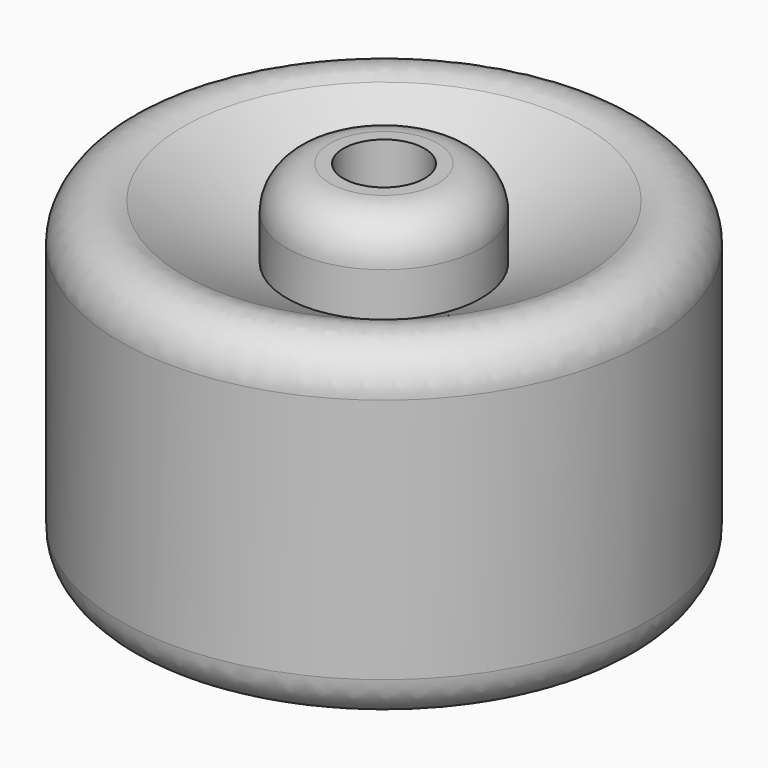
from build123d import *

# Parameters (mm, degrees)
F2_R     = 4.7879
F3_DEPTH = 9.5758
F4_R     = 5.08
F5_R     = 1.5875
F6_DEPTH = 21.6662


with BuildPart() as f1:
    # F0 (on Front) → F1 (revolve)
    with BuildSketch(Plane.XZ):
        Polygon((0, 48.886847), (0, 0), (31.123154, 7.487174), (31.123154, 48.886847), (11.450971, 38.610332), (11.450971, 48.886847), align=None)
    revolve(axis=Axis((0, 0, 24.443423), (0, 0, 1)))

    # F2 (on face) → F3 (cut)
    with BuildSketch(Plane.XY.offset(48.886847)):
        Circle(F2_R)
    extrude(amount=-F3_DEPTH, mode=Mode.SUBTRACT)

    # F4
    f4_edges = [f1.edges().sort_by_distance(p)[0] for p in [
        (-31.123154, 0, 7.487174),
        (-31.123154, 0, 48.886847),
        (31.123154, 0, 28.18701),
        (-11.450971, 0, 48.886847),
    ]]
    fillet(f4_edges, radius=F4_R)

    # F5 (on Top) → F6 (cut)
    with BuildSketch(Plane.XY):
        Circle(F5_R)
    extrude(amount=F6_DEPTH, mode=Mode.SUBTRACT)


solid = f1.part
